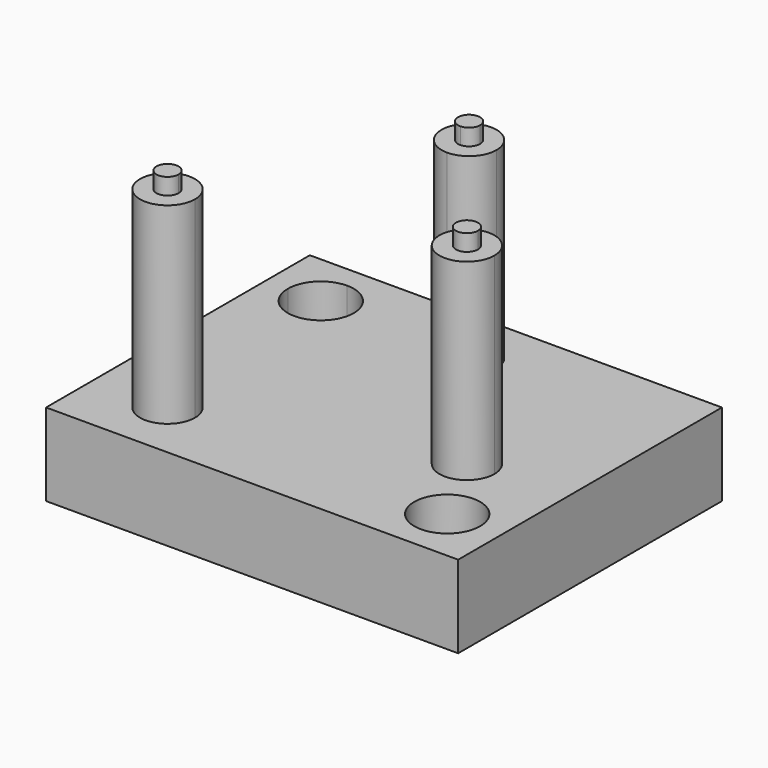
from build123d import *

# Parameters (mm, degrees)
F1_DEPTH = 15
F2_DEPTH = 3
F3_DEPTH = 50
F4_DEPTH = 53


with BuildPart() as f1:
    # F0 (on Top) → F1 (new body)
    with BuildSketch(Plane.XY):
        with BuildLine():
            Line((37.5, -20), (37.5, 30))
            Line((37.5, 30), (-27.5, 30))
            Line((-27.5, 30), (-27.5, 26))
            ThreePointArc((-27.5, 26), (-23.2573593129, 24.2426406871), (-21.5, 20))
            ThreePointArc((-21.5, 20), (-27.5, 14), (-33.5, 20))
            Line((-33.5, 20), (-37.5, 20))
            Line((-37.5, 20), (-37.5, -30))
            Line((-37.5, -30), (27.5, -30))
            Line((27.5, -30), (27.5, -26))
            ThreePointArc((27.5, -26), (23.2573593129, -15.7573593129), (33.5, -20))
            Line((33.5, -20), (37.5, -20))
        make_face()
        with BuildLine():
            ThreePointArc((-19, -19.25), (-27.5355339059, -22.7855339059), (-24, -14.25))
            ThreePointArc((-24, -14.25), (-20.4644660941, -15.7144660941), (-19, -19.25))
        make_face(mode=Mode.SUBTRACT)
        with BuildLine():
            ThreePointArc((25.05, -6.2), (16.5144660941, -9.7355339059), (20.05, -1.2))
            ThreePointArc((20.05, -1.2), (23.5855339059, -2.6644660941), (25.05, -6.2))
        make_face(mode=Mode.SUBTRACT)
        with BuildLine():
            ThreePointArc((5, 19.35), (3.5355339059, 15.8144660941), (0, 14.35))
            ThreePointArc((0, 14.35), (-3.5355339059, 22.8855339059), (5, 19.35))
        make_face(mode=Mode.SUBTRACT)
        with BuildLine():
            Line((-27.5, 26), (-27.5, 30))
            Line((-27.5, 30), (-37.5, 30))
            Line((-37.5, 30), (-37.5, 20))
            Line((-37.5, 20), (-33.5, 20))
            ThreePointArc((-33.5, 20), (-31.7426406871, 24.2426406871), (-27.5, 26))
        make_face()
        with BuildLine():
            Line((37.5, -30), (37.5, -20))
            Line((37.5, -20), (33.5, -20))
            ThreePointArc((33.5, -20), (31.7426406871, -24.2426406871), (27.5, -26))
            Line((27.5, -26), (27.5, -30))
            Line((27.5, -30), (37.5, -30))
        make_face()
    extrude(amount=F1_DEPTH)

    # F0 (on Top) → F2 (join)
    with BuildSketch(Plane.XY):
        with BuildLine():
            ThreePointArc((-21.5, 20), (-23.2573593129, 24.2426406871), (-27.5, 26))
            Line((-27.5, 26), (-27.5, 22))
            ThreePointArc((-27.5, 22), (-26.0857864376, 21.4142135624), (-25.5, 20))
            ThreePointArc((-25.5, 20), (-27.5, 18), (-29.5, 20))
            Line((-29.5, 20), (-33.5, 20))
            ThreePointArc((-33.5, 20), (-27.5, 14), (-21.5, 20))
        make_face()
        with BuildLine():
            Line((-27.5, 22), (-27.5, 26))
            ThreePointArc((-27.5, 26), (-31.7426406871, 24.2426406871), (-33.5, 20))
            Line((-33.5, 20), (-29.5, 20))
            ThreePointArc((-29.5, 20), (-28.9142135624, 21.4142135624), (-27.5, 22))
        make_face()
        with BuildLine():
            ThreePointArc((27.5, -26), (31.7426406871, -24.2426406871), (33.5, -20))
            Line((33.5, -20), (29.5, -20))
            ThreePointArc((29.5, -20), (28.9142135624, -21.4142135624), (27.5, -22))
            Line((27.5, -22), (27.5, -26))
        make_face()
        with BuildLine():
            Line((29.5, -20), (33.5, -20))
            ThreePointArc((33.5, -20), (23.2573593129, -15.7573593129), (27.5, -26))
            Line((27.5, -26), (27.5, -22))
            ThreePointArc((27.5, -22), (26.0857864376, -18.5857864376), (29.5, -20))
        make_face()
    extrude(amount=F2_DEPTH)

    # F0 (on Top) → F3 (join)
    with BuildSketch(Plane.XY):
        with BuildLine():
            ThreePointArc((5, 19.35), (-3.5355339059, 22.8855339059), (0, 14.35))
            ThreePointArc((0, 14.35), (3.5355339059, 15.8144660941), (5, 19.35))
        make_face()
        with BuildLine():
            ThreePointArc((2, 19.35), (1.4142135624, 17.9357864376), (0, 17.35))
            ThreePointArc((0, 17.35), (-1.4142135624, 20.7642135624), (2, 19.35))
        make_face(mode=Mode.SUBTRACT)
        with BuildLine():
            ThreePointArc((-19, -19.25), (-20.4644660941, -15.7144660941), (-24, -14.25))
            ThreePointArc((-24, -14.25), (-27.5355339059, -22.7855339059), (-19, -19.25))
        make_face()
        with BuildLine():
            ThreePointArc((-22, -19.25), (-25.4142135624, -20.6642135624), (-24, -17.25))
            ThreePointArc((-24, -17.25), (-22.5857864376, -17.8357864376), (-22, -19.25))
        make_face(mode=Mode.SUBTRACT)
        with BuildLine():
            ThreePointArc((25.05, -6.2), (23.5855339059, -2.6644660941), (20.05, -1.2))
            ThreePointArc((20.05, -1.2), (16.5144660941, -9.7355339059), (25.05, -6.2))
        make_face()
        with BuildLine():
            ThreePointArc((22.05, -6.2), (18.6357864376, -7.6142135624), (20.05, -4.2))
            ThreePointArc((20.05, -4.2), (21.4642135624, -4.7857864376), (22.05, -6.2))
        make_face(mode=Mode.SUBTRACT)
    extrude(amount=F3_DEPTH)

    # F0 (on Top) → F4 (join)
    with BuildSketch(Plane.XY):
        with BuildLine():
            ThreePointArc((2, 19.35), (-1.4142135624, 20.7642135624), (0, 17.35))
            ThreePointArc((0, 17.35), (1.4142135624, 17.9357864376), (2, 19.35))
        make_face()
        with BuildLine():
            ThreePointArc((-22, -19.25), (-22.5857864376, -17.8357864376), (-24, -17.25))
            ThreePointArc((-24, -17.25), (-25.4142135624, -20.6642135624), (-22, -19.25))
        make_face()
        with BuildLine():
            ThreePointArc((22.05, -6.2), (21.4642135624, -4.7857864376), (20.05, -4.2))
            ThreePointArc((20.05, -4.2), (18.6357864376, -7.6142135624), (22.05, -6.2))
        make_face()
    extrude(amount=F4_DEPTH)


solid = f1.part
